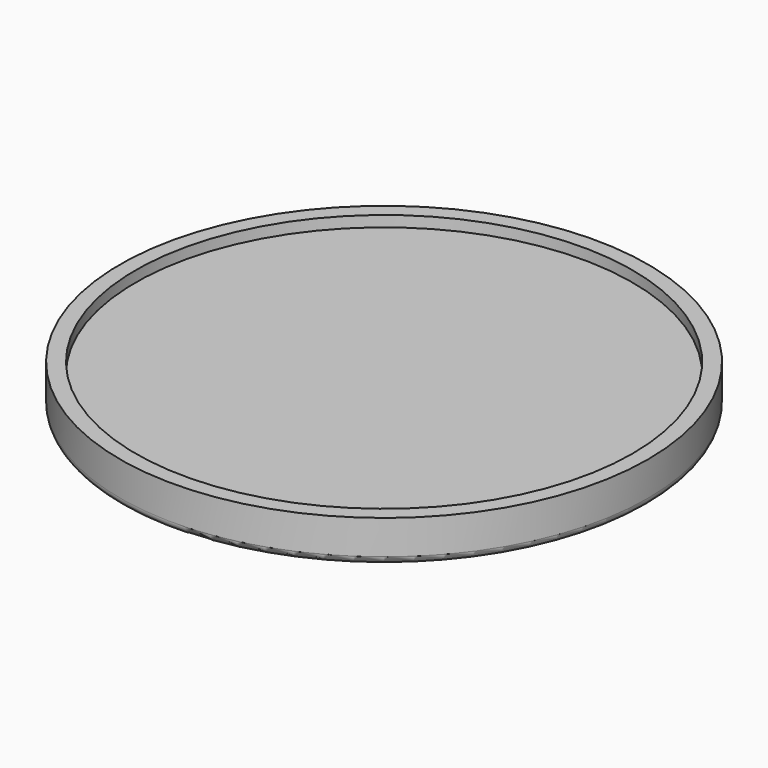
from build123d import *

# Parameters (mm, degrees)
F0_R          = 170
F0_R_2        = 160
F1_DEPTH      = 20
F1_DEPTH_BACK = 7
F0_R_3        = 150
F2_DEPTH      = 7
F3_R          = 5
F4_DEPTH      = 3
F6_R          = 5


with BuildPart() as f1:
    # F0 (on Top) → F1 (new body, two sides)
    with BuildSketch(Plane.XY) as f1_sk:
        Circle(F0_R)
        Circle(F0_R_2, mode=Mode.SUBTRACT)
    extrude(amount=F1_DEPTH)
    extrude(f1_sk.sketch, amount=-F1_DEPTH_BACK)

    # F0 (on Top) → F2 (join)
    with BuildSketch(Plane.XY):
        Circle(F0_R_2)
        Circle(F0_R_3, mode=Mode.SUBTRACT)
    extrude(amount=-F2_DEPTH)

    # F3
    f3_edges = [f1.edges().sort_by_distance(p)[0] for p in [
        (-170, 0, -7),
    ]]
    fillet(f3_edges, radius=F3_R)

    # F6
    f6_edges = [f1.edges().sort_by_distance(p)[0] for p in [
        (-150, 0, -7),
    ]]
    fillet(f6_edges, radius=F6_R)


with BuildPart() as f4:
    # F0 (on Top) → F4 (new body)
    with BuildSketch(Plane.XY):
        Circle(F0_R_2)
        Circle(F0_R_3, mode=Mode.SUBTRACT)
        Circle(F0_R_3)
    extrude(amount=F4_DEPTH)


with BuildPart() as f5_1:
    # F5: copy of F4
    add(f4.part.moved(Location((0, 0, 10))))


solid = Compound([f1.part, f4.part, f5_1.part])
